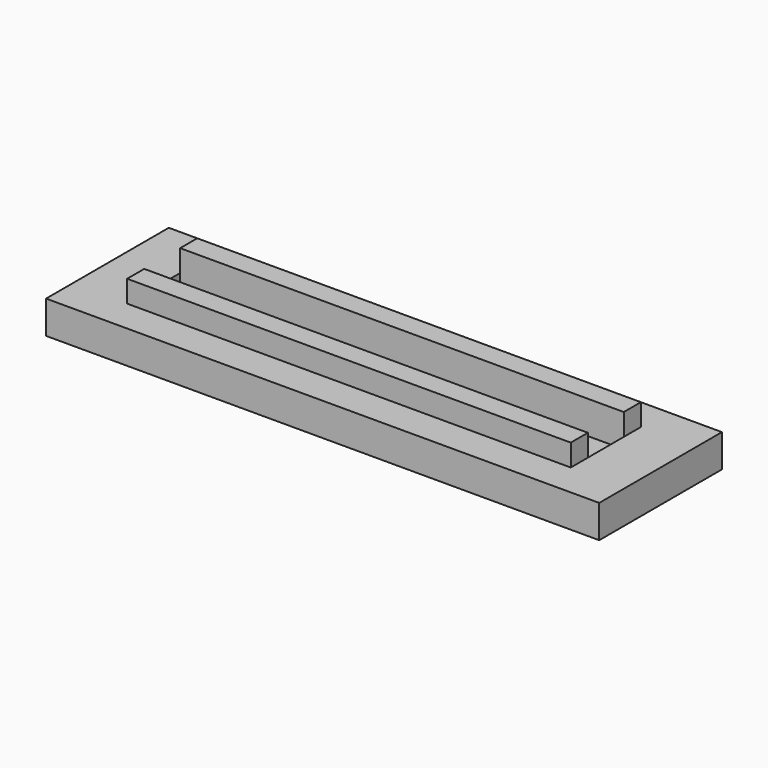
from build123d import *

# Parameters (mm, degrees)
F0_W     = 40.5
F0_H     = 4.1
F1_DEPTH = 2
F0_H_2   = 1.95
F2_DEPTH = 5
F0_W_2   = 50.5
F0_H_3   = 14
F3_DEPTH = 3


with BuildPart() as f1:
    # F0 (on Top) → F1 (new body)
    with BuildSketch(Plane.XY):
        Rectangle(F0_W, F0_H)
    extrude(amount=F1_DEPTH)

    # F0 (on Top) → F2 (join)
    with BuildSketch(Plane.XY):
        with Locations((0, 3.025)):
            Rectangle(F0_W, F0_H_2)
        with Locations((0, -3.025)):
            Rectangle(F0_W, F0_H_2)
    extrude(amount=F2_DEPTH)

    # F0 (on Top) → F3 (join)
    with BuildSketch(Plane.XY):
        Rectangle(F0_W_2, F0_H_3)
        Polygon((-20.25, 2.05), (-20.25, 4), (20.25, 4), (20.25, 2.05), (20.25, -2.05), (20.25, -4), (-20.25, -4), (-20.25, -2.05), align=None, mode=Mode.SUBTRACT)
    extrude(amount=F3_DEPTH)


solid = f1.part
